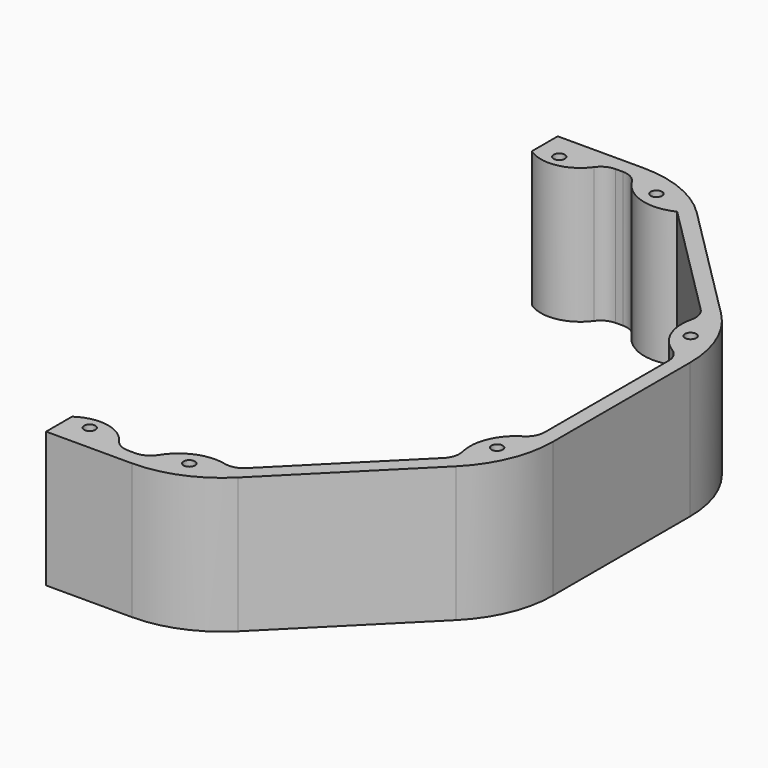
from build123d import *

# Parameters (mm, degrees)
F0_R     = 1.5
F1_DEPTH = 36
F2_R     = 30
F3_R     = 5


with BuildPart() as f1:
    # F0 (on Top) → F1 (new body)
    with BuildSketch(Plane.XY):
        with BuildLine():
            Line((3.7082439195, 81), (0, 81))
            Line((0, 81), (0, 78))
            Line((0, 78), (1.8262379212, 78))
            ThreePointArc((1.8262379212, 78), (2.8946339641, 79.4200818425), (3.7082439195, 81))
        make_face()
        with BuildLine():
            Line((1.8262379212, 78), (0, 78))
            Line((0, 78), (0, 76.3831560302))
            ThreePointArc((0, 76.3831560302), (0.9602269984, 77.1383691176), (1.8262379212, 78))
        make_face()
        with BuildLine():
            Line((15.7082439195, 81), (3.7082439195, 81))
            ThreePointArc((3.7082439195, 81), (2.8946339641, 79.4200818425), (1.8262379212, 78))
            ThreePointArc((1.8262379212, 78), (0.9602269984, 77.1383691176), (0, 76.3831560302))
            ThreePointArc((0, 76.3831560302), (8.9608411477, 74.9261020604), (15.7082439195, 81))
        make_face()
        with BuildLine():
            ThreePointArc((7.5, 78), (6, 76.5), (4.5, 78))
            ThreePointArc((4.5, 78), (6, 79.5), (7.5, 78))
        make_face(mode=Mode.SUBTRACT)
        Polygon((35.2081528017, 85), (0, 85), (0, 81), (3.7082439195, 81), (15.7082439195, 81), (23.6789969548, 81), (33.5512985522, 81), (40.5320699577, 74.0192285946), (74.0192285946, 40.5320699577), (81, 33.5512985522), (81, 23.6789969548), (81, -23.6789969548), (81, -33.5512985522), (74.0192285946, -40.5320699577), (40.5320699577, -74.0192285946), (33.5512985522, -81), (35.2081528017, -85), (85, -35.2081528017), (85, 35.2081528017), align=None)
        with BuildLine():
            Line((33.5512985522, 81), (23.6789969548, 81))
            ThreePointArc((23.6789969548, 81), (30.5381379027, 73.7255866944), (40.5320699577, 74.0192285946))
            Line((40.5320699577, 74.0192285946), (33.5512985522, 81))
        make_face()
        with Locations((32.1454083187, 77.6058807309)):
            Circle(F0_R, mode=Mode.SUBTRACT)
        with BuildLine():
            ThreePointArc((74.0192285946, 40.5320699577), (73.7255866944, 30.5381379027), (81, 23.6789969548))
            Line((81, 23.6789969548), (81, 33.5512985522))
            Line((81, 33.5512985522), (74.0192285946, 40.5320699577))
        make_face()
        with Locations((77.6058807309, 32.1454083187)):
            Circle(F0_R, mode=Mode.SUBTRACT)
        with BuildLine():
            ThreePointArc((81, -23.6789969548), (73.7255866944, -30.5381379027), (74.0192285946, -40.5320699577))
            Line((74.0192285946, -40.5320699577), (81, -33.5512985522))
            Line((81, -33.5512985522), (81, -23.6789969548))
        make_face()
        with Locations((77.6058807309, -32.1454083187)):
            Circle(F0_R, mode=Mode.SUBTRACT)
        with BuildLine():
            Line((23.6789969548, -81), (33.5512985522, -81))
            Line((33.5512985522, -81), (40.5320699577, -74.0192285946))
            ThreePointArc((40.5320699577, -74.0192285946), (30.5381379027, -73.7255866944), (23.6789969548, -81))
        make_face()
        with Locations((32.1454083187, -77.6058807309)):
            Circle(F0_R, mode=Mode.SUBTRACT)
        Polygon((0, -81), (0, -85), (35.2081528017, -85), (33.5512985522, -81), (23.6789969548, -81), (15.7082439195, -81), (3.7082439195, -81), align=None)
        with BuildLine():
            ThreePointArc((0, -76.3831560302), (2.1863327454, -78.4247466831), (3.7082439195, -81))
            Line((3.7082439195, -81), (15.7082439195, -81))
            ThreePointArc((15.7082439195, -81), (8.9608411477, -74.9261020604), (0, -76.3831560302))
        make_face()
        with Locations((6, -78)):
            Circle(F0_R, mode=Mode.SUBTRACT)
        with BuildLine():
            Line((0, -76.3831560302), (0, -81))
            Line((0, -81), (3.7082439195, -81))
            ThreePointArc((3.7082439195, -81), (2.1863327454, -78.4247466831), (0, -76.3831560302))
        make_face()
    extrude(amount=F1_DEPTH)

    # F2
    f2_edges = [f1.edges().sort_by_distance(p)[0] for p in [
        (85, -35.208153, 18),
        (85, 35.208153, 18),
        (35.208153, 85, 18),
        (35.208153, -85, 18),
    ]]
    fillet(f2_edges, radius=F2_R)

    # F3
    f3_edges = [f1.edges().sort_by_distance(p)[0] for p in [
        (23.678997, 81, 18),
        (15.708244, 81, 18),
        (74.019229, 40.53207, 18),
        (81, 23.678997, 18),
        (81, -23.678997, 18),
        (74.019229, -40.53207, 18),
        (40.53207, -74.019229, 18),
        (15.708244, -81, 18),
        (23.678997, -81, 18),
    ]]
    fillet(f3_edges, radius=F3_R)


solid = f1.part
